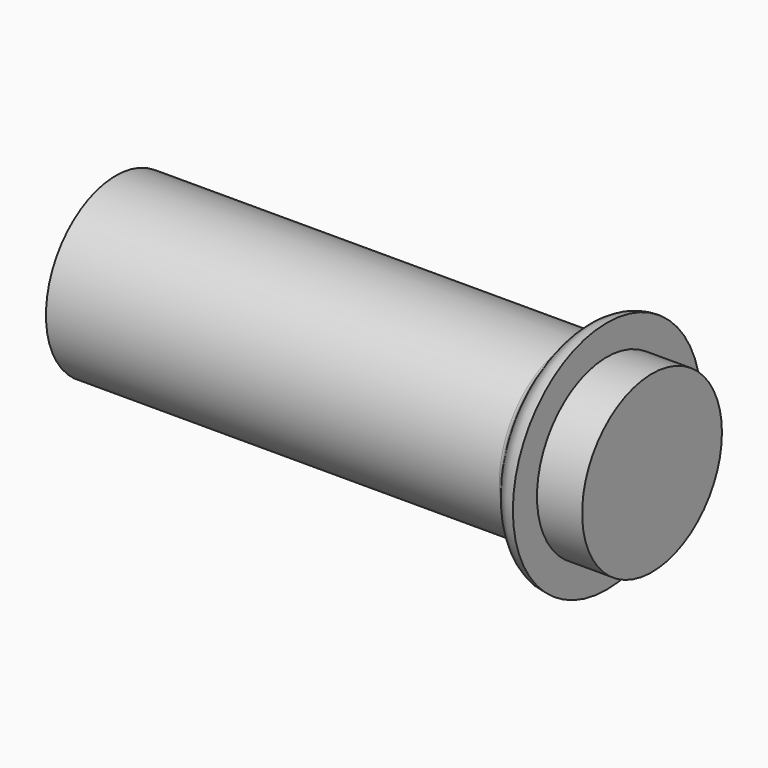
from build123d import *


with BuildPart() as f1:
    # F0 (on Top) → F1 (revolve)
    with BuildSketch(Plane.XY):
        Polygon((-16.781427, 5.8), (-16.781427, 0), (18.818573, 0), (18.818573, 5.8), (15.818573, 5.8), (13.318573, 5.8), align=None)
        with BuildLine():
            add(Edge.make_bspline(
                [(13.318573, 5.8), (13.956316, 5.8), (14.253212, 7.8), (15.818573, 7.8)],
                knots=[0, 0, 0, 0, 3.201562, 3.201562, 3.201562, 3.201562], degree=3))
            Line((13.318573, 5.8), (15.818573, 5.8))
            Line((15.818573, 5.8), (15.818573, 7.8))
        make_face()
    revolve(axis=Axis((1.018573, 0, 0), (1, 0, 0)))


solid = f1.part
